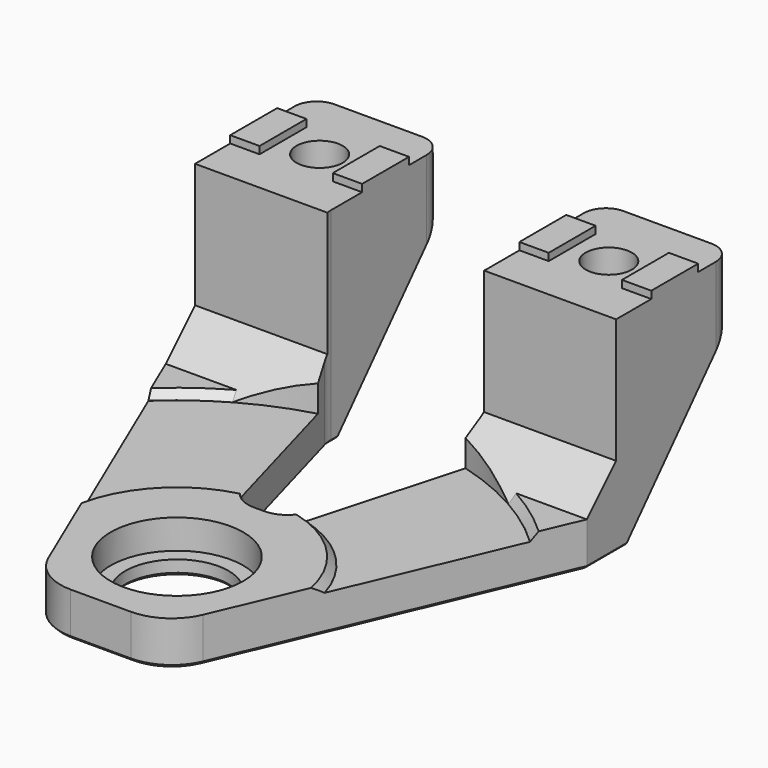
from build123d import *

# Parameters (mm, degrees)
CYLINDER037_R                = 17
CYLINDER037_DEPTH            = 10
CYLINDER036_R                = 38
CYLINDER036_DEPTH            = 10
BOX046_W                     = 4
BOX046_H                     = 8
BOX046_DEPTH                 = 1
BOX045_W                     = 4
BOX045_H                     = 8
BOX045_DEPTH                 = 1
BOX043_W                     = 4
BOX043_H                     = 8
BOX043_DEPTH                 = 1
BOX047_W                     = 4
BOX047_H                     = 8
BOX047_DEPTH                 = 1
CYLINDER033_R                = 3.15
CYLINDER033_DEPTH            = 65
CYLINDER034_R                = 3.15
CYLINDER034_DEPTH            = 65
CYLINDER032_R                = 6.15
CYLINDER032_DEPTH            = 28
CYLINDER031_R                = 6.15
CYLINDER031_DEPTH            = 28
BOX044_W                     = 21.46
BOX044_H                     = 55
BOX044_DEPTH                 = 45
CHAMFER003068012002082_SIZE2 = 7
CHAMFER003068012002082_SIZE  = 25
CHAMFER003068012002083_SIZE2 = 25
CHAMFER003068012002083_SIZE  = 7
FILLET003002010_R            = 4
FILLET003002011_R            = 5
CYLINDER_R                   = 9.05
CYLINDER_DEPTH               = 10
CYLINDER030_R                = 7.05
CYLINDER030_DEPTH            = 10
BOX041_W                     = 57.46
BOX041_H                     = 72
BOX041_DEPTH                 = 6
CHAMFER003068012002084_SIZE2 = 20
CHAMFER003068012002084_SIZE  = 47
CHAMFER003068012002085_SIZE2 = 47
CHAMFER003068012002085_SIZE  = 20
FILLET003002012_R            = 7
BOX042_W                     = 57.46
BOX042_H                     = 20
BOX042_DEPTH                 = 22
CHAMFER003068012002086_SIZE2 = 20
CHAMFER003068012002086_SIZE  = 18
CHAMFER003068012002087_SIZE  = 5
FILLET003002013_R            = 3
CHAMFER003068012002088_SIZE  = 0.99
CHAMFER003068012002089_SIZE  = 0.99
CHAMFER003068012002090_SIZE  = 0.4


with BuildPart() as cylinder037:
    # Cylinder037 → Cylinder037 (new body)
    with BuildSketch(Plane.XY.offset(-23)):
        Circle(CYLINDER037_R)
    extrude(amount=CYLINDER037_DEPTH)


with BuildPart() as cut001040:
    # Cylinder036 → Cylinder036 (new body)
    with BuildSketch(Plane.XY.offset(-23)):
        Circle(CYLINDER036_R)
    extrude(amount=CYLINDER036_DEPTH)

    # Cut001040: cut Cylinder037
    add(cylinder037.part, mode=Mode.SUBTRACT)


with BuildPart() as cube046:
    # Box046 → Box046 (new body)
    with BuildSketch(Plane(origin=(10.73, 45, 0), x_dir=(1, 0, 0), z_dir=(0, 0, 1))):
        with Locations((2, 4)):
            Rectangle(BOX046_W, BOX046_H)
    extrude(amount=BOX046_DEPTH)


with BuildPart() as cube045:
    # Box045 → Box045 (new body)
    with BuildSketch(Plane(origin=(-14.73, 45, 0), x_dir=(1, 0, 0), z_dir=(0, 0, 1))):
        with Locations((2, 4)):
            Rectangle(BOX045_W, BOX045_H)
    extrude(amount=BOX045_DEPTH)


with BuildPart() as cube043:
    # Box043 → Box043 (new body)
    with BuildSketch(Plane(origin=(-28.73, 45, 0), x_dir=(1, 0, 0), z_dir=(0, 0, 1))):
        with Locations((2, 4)):
            Rectangle(BOX043_W, BOX043_H)
    extrude(amount=BOX043_DEPTH)


with BuildPart() as fusion001002012032:
    # Box047 → Box047 (new body)
    with BuildSketch(Plane(origin=(24.73, 45, 0), x_dir=(1, 0, 0), z_dir=(0, 0, 1))):
        with Locations((2, 4)):
            Rectangle(BOX047_W, BOX047_H)
    extrude(amount=BOX047_DEPTH)

    # Fusion001002012032: union Cube046, Cube045, Cube043
    add(cube046.part)
    add(cube045.part)
    add(cube043.part)


with BuildPart() as cylinder033:
    # Cylinder033 → Cylinder033 (new body)
    with BuildSketch(Plane(origin=(-19.73, 49, -41), x_dir=(0, 1, 0), z_dir=(0, 0, 1))):
        Circle(CYLINDER033_R)
    extrude(amount=CYLINDER033_DEPTH)


with BuildPart() as fusion001002012030:
    # Cylinder034 → Cylinder034 (new body)
    with BuildSketch(Plane(origin=(19.73, 49, -41), x_dir=(0, 1, 0), z_dir=(0, 0, 1))):
        Circle(CYLINDER034_R)
    extrude(amount=CYLINDER034_DEPTH)

    # Fusion001002012030: union Cylinder033
    add(cylinder033.part)


with BuildPart() as cylinder032:
    # Cylinder032 → Cylinder032 (new body)
    with BuildSketch(Plane(origin=(-19.73, 49, -41), x_dir=(0, 1, 0), z_dir=(0, 0, 1))):
        Circle(CYLINDER032_R)
    extrude(amount=CYLINDER032_DEPTH)


with BuildPart() as fusion001002012031:
    # Cylinder031 → Cylinder031 (new body)
    with BuildSketch(Plane(origin=(19.73, 49, -41), x_dir=(0, 1, 0), z_dir=(0, 0, 1))):
        Circle(CYLINDER031_R)
    extrude(amount=CYLINDER031_DEPTH)

    # Fusion001002012031: union Cylinder032
    add(cylinder032.part)


with BuildPart() as fusion001002012031_1:
    # Fusion001002012031 placement: moved
    add(fusion001002012031.part.moved(Location((0, 0, 6))))


with BuildPart() as fillet003002011:
    # Box044 → Box044 (new body)
    with BuildSketch(Plane(origin=(-10.73, 14, -35), x_dir=(1, 0, 0), z_dir=(0, 0, 1))):
        with Locations((10.73, 27.5)):
            Rectangle(BOX044_W, BOX044_H)
    extrude(amount=BOX044_DEPTH)

    # Chamfer003068012002082
    chamfer003068012002082_edges = [fillet003002011.edges().sort_by_distance(p)[0] for p in [
        (10.73, 14, -12.5),
    ]]
    chamfer003068012002082_side = fillet003002011.faces().sort_by_distance((10.73, 41.5, -12.5))[0]
    chamfer(chamfer003068012002082_edges, length=CHAMFER003068012002082_SIZE, length2=CHAMFER003068012002082_SIZE2, reference=chamfer003068012002082_side)

    # Chamfer003068012002083
    chamfer003068012002083_edges = [fillet003002011.edges().sort_by_distance(p)[0] for p in [
        (-10.73, 14, -12.5),
    ]]
    chamfer003068012002083_side = fillet003002011.faces().sort_by_distance((-3.5, 14, -12.5))[0]
    chamfer(chamfer003068012002083_edges, length=CHAMFER003068012002083_SIZE, length2=CHAMFER003068012002083_SIZE2, reference=chamfer003068012002083_side)

    # Fillet003002010
    fillet003002010_edges = [fillet003002011.edges().sort_by_distance(p)[0] for p in [
        (-3.73, 14, -12.5),
        (3.73, 14, -12.5),
    ]]
    fillet(fillet003002010_edges, radius=FILLET003002010_R)

    # Fillet003002011
    fillet003002011_edges = [fillet003002011.edges().sort_by_distance(p)[0] for p in [
        (-10.73, 39, -12.5),
        (10.73, 39, -12.5),
    ]]
    fillet(fillet003002011_edges, radius=FILLET003002011_R)


with BuildPart() as cylinder:
    # Cylinder → Cylinder (new body)
    with BuildSketch(Plane.XY.offset(-27)):
        Circle(CYLINDER_R)
    extrude(amount=CYLINDER_DEPTH)


with BuildPart() as fusion001002012028:
    # Cylinder030 → Cylinder030 (new body)
    with BuildSketch(Plane.XY.offset(-29)):
        Circle(CYLINDER030_R)
    extrude(amount=CYLINDER030_DEPTH)

    # Fusion001002012028: union Cylinder
    add(cylinder.part)


with BuildPart() as fusion001002012028_1:
    # Fusion001002012028 placement: moved
    add(fusion001002012028.part.moved(Location((0, 0, 1))))


with BuildPart() as fillet003002012:
    # Box041 → Box041 (new body)
    with BuildSketch(Plane(origin=(-28.73, -13, -28), x_dir=(1, 0, 0), z_dir=(0, 0, 1))):
        with Locations((28.73, 36)):
            Rectangle(BOX041_W, BOX041_H)
    extrude(amount=BOX041_DEPTH)

    # Chamfer003068012002084
    chamfer003068012002084_edges = [fillet003002012.edges().sort_by_distance(p)[0] for p in [
        (-28.73, -13, -25),
    ]]
    chamfer003068012002084_side = fillet003002012.faces().sort_by_distance((-28.73, 23, -25))[0]
    chamfer(chamfer003068012002084_edges, length=CHAMFER003068012002084_SIZE, length2=CHAMFER003068012002084_SIZE2, reference=chamfer003068012002084_side)

    # Chamfer003068012002085
    chamfer003068012002085_edges = [fillet003002012.edges().sort_by_distance(p)[0] for p in [
        (28.73, -13, -25),
    ]]
    chamfer003068012002085_side = fillet003002012.faces().sort_by_distance((10, -13, -25))[0]
    chamfer(chamfer003068012002085_edges, length=CHAMFER003068012002085_SIZE, length2=CHAMFER003068012002085_SIZE2, reference=chamfer003068012002085_side)

    # Fillet003002012
    fillet003002012_edges = [fillet003002012.edges().sort_by_distance(p)[0] for p in [
        (-8.73, -13, -25),
        (8.73, -13, -25),
    ]]
    fillet(fillet003002012_edges, radius=FILLET003002012_R)


with BuildPart() as cut001036:
    # Cut001036 base: copy of Fillet003002012
    add(fillet003002012.part)

    # Cut001036: cut Fusion001002012028
    add(fusion001002012028_1.part, mode=Mode.SUBTRACT)


with BuildPart() as cut001035:
    # Cut001035 base: copy of Fillet003002012
    add(fillet003002012.part)

    # Cut001035: cut Fusion001002012028
    add(fusion001002012028_1.part, mode=Mode.SUBTRACT)


with BuildPart() as obj1:
    # Box042 → Box042 (new body)
    with BuildSketch(Plane(origin=(-28.73, 39, -22), x_dir=(1, 0, 0), z_dir=(0, 0, 1))):
        with Locations((28.73, 10)):
            Rectangle(BOX042_W, BOX042_H)
    extrude(amount=BOX042_DEPTH)

    # Fusion001002012033: union Cut001035
    add(cut001035.part)

    # Fusion001002012034: union Cut001036
    add(cut001036.part)

    # Chamfer003068012002086
    chamfer003068012002086_edges = [obj1.edges().sort_by_distance(p)[0] for p in [
        (0, 59, -28),
    ]]
    chamfer003068012002086_side = obj1.faces().sort_by_distance((0, 30.57213, -28))[0]
    chamfer(chamfer003068012002086_edges, length=CHAMFER003068012002086_SIZE, length2=CHAMFER003068012002086_SIZE2, reference=chamfer003068012002086_side)

    # Cut001037: cut Fillet003002011
    add(fillet003002011.part, mode=Mode.SUBTRACT)

    # Chamfer003068012002087
    chamfer003068012002087_edges = [obj1.edges().sort_by_distance(p)[0] for p in [
        (-19.706303, 39, -22),
        (19.706303, 39, -22),
    ]]
    chamfer(chamfer003068012002087_edges, length=CHAMFER003068012002087_SIZE)

    # Cut001038: cut Fusion001002012031
    add(fusion001002012031_1.part, mode=Mode.SUBTRACT)

    # Cut001039: cut Fusion001002012030
    add(fusion001002012030.part, mode=Mode.SUBTRACT)

    # Fusion001002012035: union Fusion001002012032
    add(fusion001002012032.part)

    # Fillet003002013
    fillet003002013_edges = [obj1.edges().sort_by_distance(p)[0] for p in [
        (-10.73, 59, -4),
        (-28.73, 59, -4),
        (28.73, 59, -4),
        (10.73, 59, -4),
    ]]
    fillet(fillet003002013_edges, radius=FILLET003002013_R)

    # Cut001041: cut Cut001040
    add(cut001040.part, mode=Mode.SUBTRACT)

    # Chamfer003068012002088
    chamfer003068012002088_edges = [obj1.edges().sort_by_distance(p)[0] for p in [
        (11.861461, 12.178085, -22),
        (-11.861461, 12.178085, -22),
    ]]
    chamfer(chamfer003068012002088_edges, length=CHAMFER003068012002088_SIZE)

    # Chamfer003068012002089
    chamfer003068012002089_edges = [obj1.edges().sort_by_distance(p)[0] for p in [
        (-21.735995, 31.169641, -22),
        (21.735995, 31.169641, -22),
    ]]
    chamfer(chamfer003068012002089_edges, length=CHAMFER003068012002089_SIZE)

    # Chamfer003068012002090
    chamfer003068012002090_edges = [obj1.edges().sort_by_distance(p)[0] for p in [
        (-19.636194, 12.629557, -28),
        (-28.73, 48.5, -19.666667),
        (-28.73, 37.5, -28),
        (-7.962252, -11.83893, -28),
        (0, -13, -28),
        (7.962252, -11.83893, -28),
        (19.636194, 12.629557, -28),
        (28.73, 37.5, -28),
        (10.73, 40.343396, -28),
        (10.683489, 39.006389, -28),
        (7.546417, 27.630062, -28),
        (3.11338, 14.812989, -28),
        (0, 14, -28),
        (-3.11338, 14.812989, -28),
        (-7.546417, 27.630062, -28),
        (-10.683489, 39.006389, -28),
        (-10.73, 40.343396, -28),
        (-7.05, 0, -28),
        (-28.042876, 57.910655, -9.210383),
        (-10.73, 48.5, -19.666667),
        (-11.417124, 57.910655, -9.210383),
        (-19.73, 59, -8),
        (-19.723632, 42.850003, -25.944441),
        (28.73, 48.5, -19.666667),
        (10.73, 48.5, -19.666667),
        (28.042876, 57.910655, -9.210383),
        (19.73, 59, -8),
        (11.417124, 57.910655, -9.210383),
        (19.736368, 42.850003, -25.944441),
    ]]
    chamfer(chamfer003068012002090_edges, length=CHAMFER003068012002090_SIZE)


solid = obj1.part
